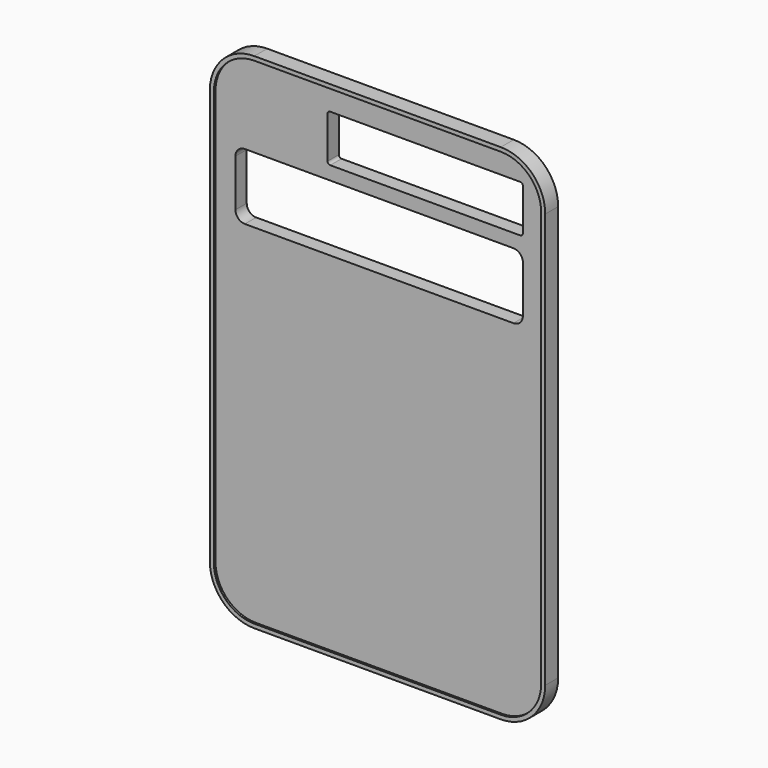
from build123d import *

# Parameters (mm, degrees)
F1_DEPTH = 3.048
F2_DEPTH = 2.667


with BuildPart() as f1:
    # F0 (on Front) → F1 (new body)
    with BuildSketch(Plane.XZ):
        with BuildLine():
            Line((-31.623, 39.116), (-31.623, -39.116))
            ThreePointArc((-31.623, -39.116), (-29.167969, -45.042969), (-23.241, -47.498))
            Line((-23.241, -47.498), (23.241, -47.498))
            ThreePointArc((23.241, -47.498), (29.167969, -45.042969), (31.623, -39.116))
            Line((31.623, -39.116), (31.623, 39.116))
            ThreePointArc((31.623, 39.116), (29.167969, 45.042969), (23.241, 47.498))
            Line((23.241, 47.498), (-23.241, 47.498))
            ThreePointArc((-23.241, 47.498), (-29.167969, 45.042969), (-31.623, 39.116))
        make_face()
        with BuildLine():
            ThreePointArc((30.861, -39.116), (28.629154, -44.504154), (23.241, -46.736))
            Line((23.241, -46.736), (-23.241, -46.736))
            ThreePointArc((-23.241, -46.736), (-28.629154, -44.504154), (-30.861, -39.116))
            Line((-30.861, -39.116), (-30.861, 39.116))
            ThreePointArc((-30.861, 39.116), (-28.629154, 44.504154), (-23.241, 46.736))
            Line((-23.241, 46.736), (23.241, 46.736))
            ThreePointArc((23.241, 46.736), (28.629154, 44.504154), (30.861, 39.116))
            Line((30.861, 39.116), (30.861, -39.116))
        make_face(mode=Mode.SUBTRACT)
    extrude(amount=F1_DEPTH)

    # F0 (on Front) → F2 (join)
    with BuildSketch(Plane.XZ):
        with BuildLine():
            Line((-23.241, -46.736), (23.241, -46.736))
            ThreePointArc((23.241, -46.736), (28.629154, -44.504154), (30.861, -39.116))
            Line((30.861, -39.116), (30.861, 39.116))
            ThreePointArc((30.861, 39.116), (28.629154, 44.504154), (23.241, 46.736))
            Line((23.241, 46.736), (-23.241, 46.736))
            ThreePointArc((-23.241, 46.736), (-28.629154, 44.504154), (-30.861, 39.116))
            Line((-30.861, 39.116), (-30.861, -39.116))
            ThreePointArc((-30.861, -39.116), (-28.629154, -44.504154), (-23.241, -46.736))
        make_face()
        with BuildLine():
            ThreePointArc((27.1018, 20.574), (26.581036, 19.316764), (25.3238, 18.796))
            Line((25.3238, 18.796), (-25.3238, 18.796))
            ThreePointArc((-25.3238, 18.796), (-26.581036, 19.316764), (-27.1018, 20.574))
            Line((-27.1018, 20.574), (-27.1018, 29.464))
            ThreePointArc((-27.1018, 29.464), (-26.581036, 30.721236), (-25.3238, 31.242))
            Line((-25.3238, 31.242), (25.3238, 31.242))
            ThreePointArc((25.3238, 31.242), (26.581036, 30.721236), (27.1018, 29.464))
            Line((27.1018, 29.464), (27.1018, 20.574))
        make_face(mode=Mode.SUBTRACT)
        with BuildLine():
            ThreePointArc((-9.7282, 42.164), (-9.57941, 42.52321), (-9.2202, 42.672))
            Line((-9.2202, 42.672), (26.5938, 42.672))
            ThreePointArc((26.5938, 42.672), (26.95301, 42.52321), (27.1018, 42.164))
            Line((27.1018, 42.164), (27.1018, 34.29))
            ThreePointArc((27.1018, 34.29), (26.95301, 33.93079), (26.5938, 33.782))
            Line((26.5938, 33.782), (-9.2202, 33.782))
            ThreePointArc((-9.2202, 33.782), (-9.57941, 33.93079), (-9.7282, 34.29))
            Line((-9.7282, 34.29), (-9.7282, 42.164))
        make_face(mode=Mode.SUBTRACT)
    extrude(amount=F2_DEPTH)


solid = f1.part
